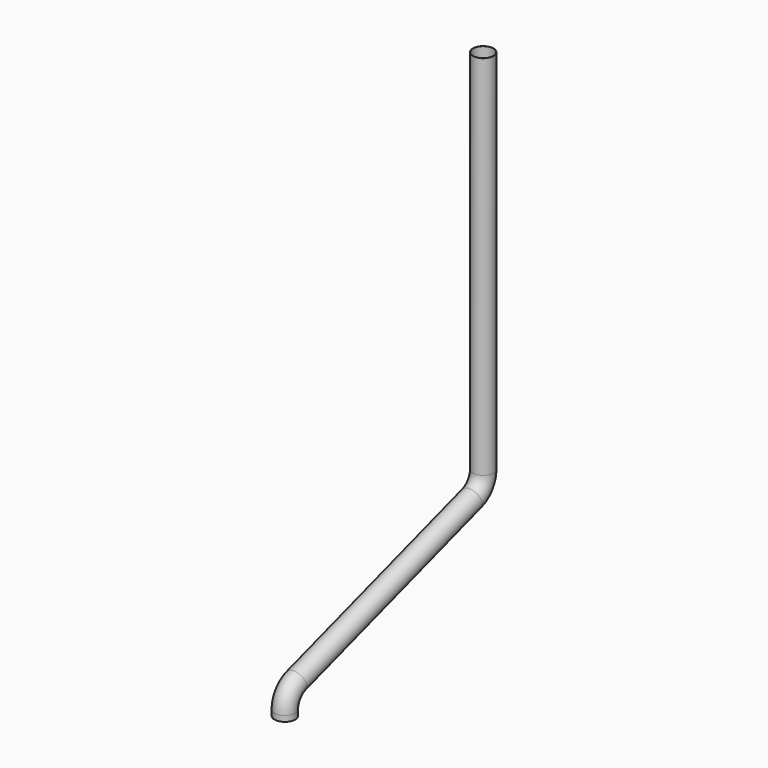
from build123d import *

# Parameters (mm, degrees)
F1_R   = 50
F1_R_2 = 49


with BuildPart() as f2:
    # F2: sweep along a path in F0
    with BuildLine(Plane.YZ) as f2_path:
        Line((0, 0), (0, -1777.345747))
        ThreePointArc((0, -1777.345747), (-19.098301, -1836.124272), (-69.098301, -1872.451399))
        Line((-69.098301, -1872.451399), (-1130.901699, -2217.452237))
        ThreePointArc((-1130.901699, -2217.452237), (-1180.901699, -2253.779363), (-1200, -2312.557888))
        Line((-1200, -2312.557888), (-1200, -2339.903635))
    # F1 (on Top) → F2 (sweep)
    with BuildSketch(Plane.XY):
        Circle(F1_R)
        Circle(F1_R_2, mode=Mode.SUBTRACT)
    sweep(path=f2_path.line)


solid = f2.part
